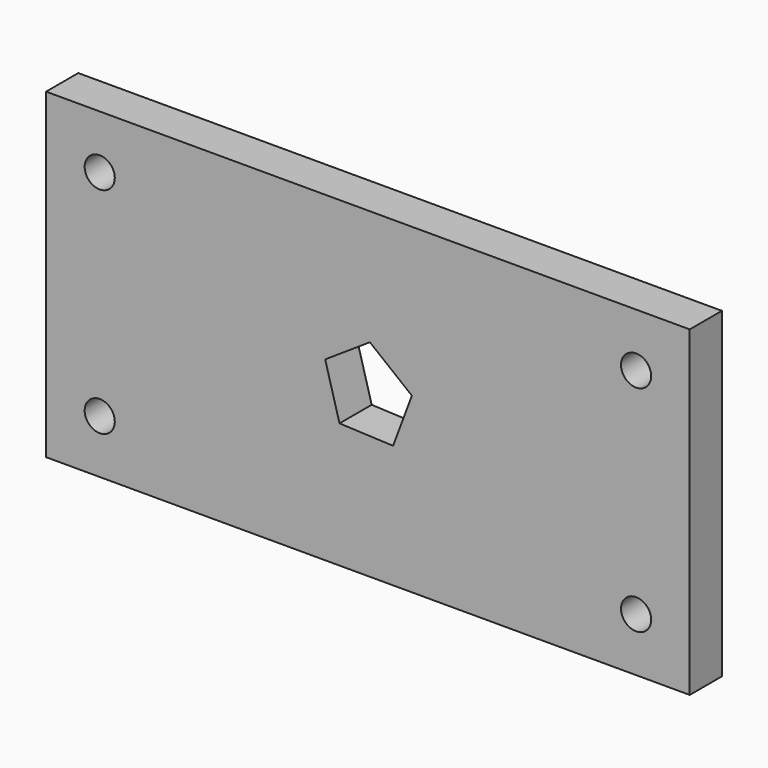
from build123d import *

# Parameters (mm, degrees)
F0_W     = 152.4
F0_H     = 76.2
F0_R     = 3.5687
F1_DEPTH = 9.525


with BuildPart() as f1:
    # F0 (on Front) → F1 (new body)
    with BuildSketch(Plane.XZ):
        with Locations((-16.148576, -16.968202)):
            Rectangle(F0_W, F0_H)
        with Locations((-79.648576, -42.368202)):
            Circle(F0_R, mode=Mode.SUBTRACT)
        with Locations((47.351424, -42.368202)):
            Circle(F0_R, mode=Mode.SUBTRACT)
        with Locations((-79.648576, 8.431798)):
            Circle(F0_R, mode=Mode.SUBTRACT)
        Polygon((-26.268572, -13.187168), (-15.679849, -6.17511), (-5.738891, -14.078739), (-10.183763, -25.975507), (-22.871804, -25.424486), align=None, mode=Mode.SUBTRACT)
        with Locations((47.351424, 8.431798)):
            Circle(F0_R, mode=Mode.SUBTRACT)
    extrude(amount=F1_DEPTH)


solid = f1.part
